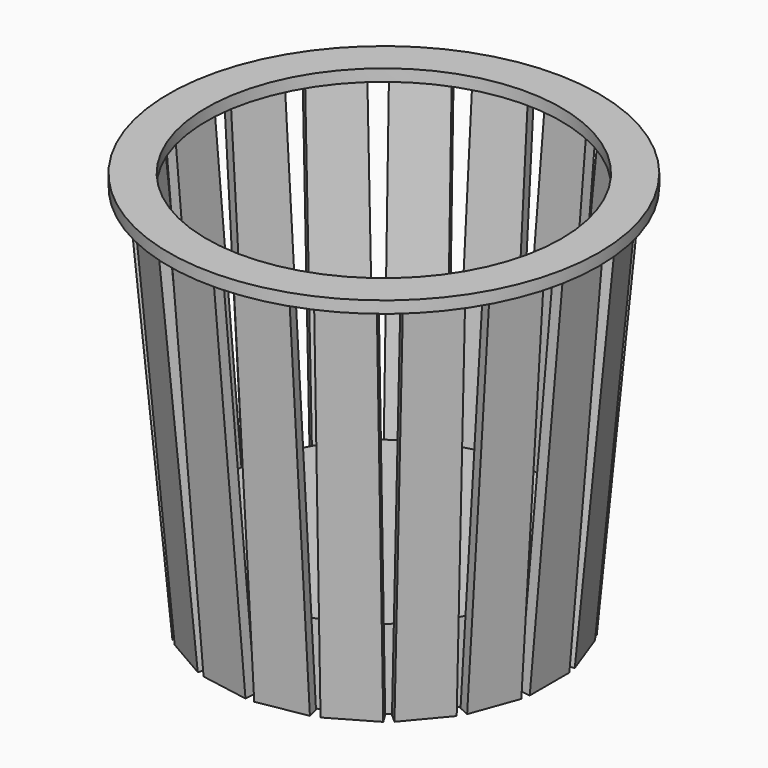
from build123d import *

# Parameters (mm, degrees)
F0_R     = 393.1
F1_DEPTH = 200
F2_W     = 25
F2_H     = 125
F3_DEPTH = 970
F4_ANGLE = -5
F5_COUNT = 18
F7_R     = 542.5459379175
F7_R_2   = 447.6410704652
F8_DEPTH = 30


with BuildPart() as f1:
    # F0 (on Top) → F1 (new body)
    with BuildSketch(Plane.XY):
        Circle(F0_R)
    extrude(amount=F1_DEPTH)


with BuildPart() as f3:
    # F2 (on Top) → F3 (new body)
    with BuildSketch(Plane.XY):
        with Locations((-405.6, 0)):
            Rectangle(F2_W, F2_H)
    extrude(amount=F3_DEPTH)


with BuildPart() as f3_1:
    # F4: moved
    add(f3.part.rotate(Axis((-393.1, 0, 0), (0, 1, 0)), F4_ANGLE))


with BuildPart() as f5_1:
    # F5: instance of F3
    add(f3_1.part.rotate(Axis((0, 0, 0), (0, 0, -1)), 1 * 360 / F5_COUNT))


with BuildPart() as f5_2:
    # F5: instance of F3
    add(f3_1.part.rotate(Axis((0, 0, 0), (0, 0, -1)), 2 * 360 / F5_COUNT))


with BuildPart() as f5_3:
    # F5: instance of F3
    add(f3_1.part.rotate(Axis((0, 0, 0), (0, 0, -1)), 3 * 360 / F5_COUNT))


with BuildPart() as f5_4:
    # F5: instance of F3
    add(f3_1.part.rotate(Axis((0, 0, 0), (0, 0, -1)), 4 * 360 / F5_COUNT))


with BuildPart() as f5_5:
    # F5: instance of F3
    add(f3_1.part.rotate(Axis((0, 0, 0), (0, 0, -1)), 5 * 360 / F5_COUNT))


with BuildPart() as f5_6:
    # F5: instance of F3
    add(f3_1.part.rotate(Axis((0, 0, 0), (0, 0, -1)), 6 * 360 / F5_COUNT))


with BuildPart() as f5_7:
    # F5: instance of F3
    add(f3_1.part.rotate(Axis((0, 0, 0), (0, 0, -1)), 7 * 360 / F5_COUNT))


with BuildPart() as f5_8:
    # F5: instance of F3
    add(f3_1.part.rotate(Axis((0, 0, 0), (0, 0, -1)), 8 * 360 / F5_COUNT))


with BuildPart() as f5_9:
    # F5: instance of F3
    add(f3_1.part.rotate(Axis((0, 0, 0), (0, 0, -1)), 9 * 360 / F5_COUNT))


with BuildPart() as f5_10:
    # F5: instance of F3
    add(f3_1.part.rotate(Axis((0, 0, 0), (0, 0, -1)), 10 * 360 / F5_COUNT))


with BuildPart() as f5_11:
    # F5: instance of F3
    add(f3_1.part.rotate(Axis((0, 0, 0), (0, 0, -1)), 11 * 360 / F5_COUNT))


with BuildPart() as f5_12:
    # F5: instance of F3
    add(f3_1.part.rotate(Axis((0, 0, 0), (0, 0, -1)), 12 * 360 / F5_COUNT))


with BuildPart() as f5_13:
    # F5: instance of F3
    add(f3_1.part.rotate(Axis((0, 0, 0), (0, 0, -1)), 13 * 360 / F5_COUNT))


with BuildPart() as f5_14:
    # F5: instance of F3
    add(f3_1.part.rotate(Axis((0, 0, 0), (0, 0, -1)), 14 * 360 / F5_COUNT))


with BuildPart() as f5_15:
    # F5: instance of F3
    add(f3_1.part.rotate(Axis((0, 0, 0), (0, 0, -1)), 15 * 360 / F5_COUNT))


with BuildPart() as f5_16:
    # F5: instance of F3
    add(f3_1.part.rotate(Axis((0, 0, 0), (0, 0, -1)), 16 * 360 / F5_COUNT))


with BuildPart() as f5_17:
    # F5: instance of F3
    add(f3_1.part.rotate(Axis((0, 0, 0), (0, 0, -1)), 17 * 360 / F5_COUNT))


with BuildPart() as f8:
    # F7 (on 3pt) → F8 (new body)
    with BuildSketch(Plane(origin=(0, 0, 966.308857149), x_dir=(1, 0, 0), z_dir=(0, 0, -1))):
        Circle(F7_R)
        Circle(F7_R_2, mode=Mode.SUBTRACT)
    extrude(amount=-F8_DEPTH)


solid = Compound([f1.part, f3_1.part, f5_1.part, f5_2.part, f5_3.part, f5_4.part, f5_5.part, f5_6.part, f5_7.part, f5_8.part, f5_9.part, f5_10.part, f5_11.part, f5_12.part, f5_13.part, f5_14.part, f5_15.part, f5_16.part, f5_17.part, f8.part])
